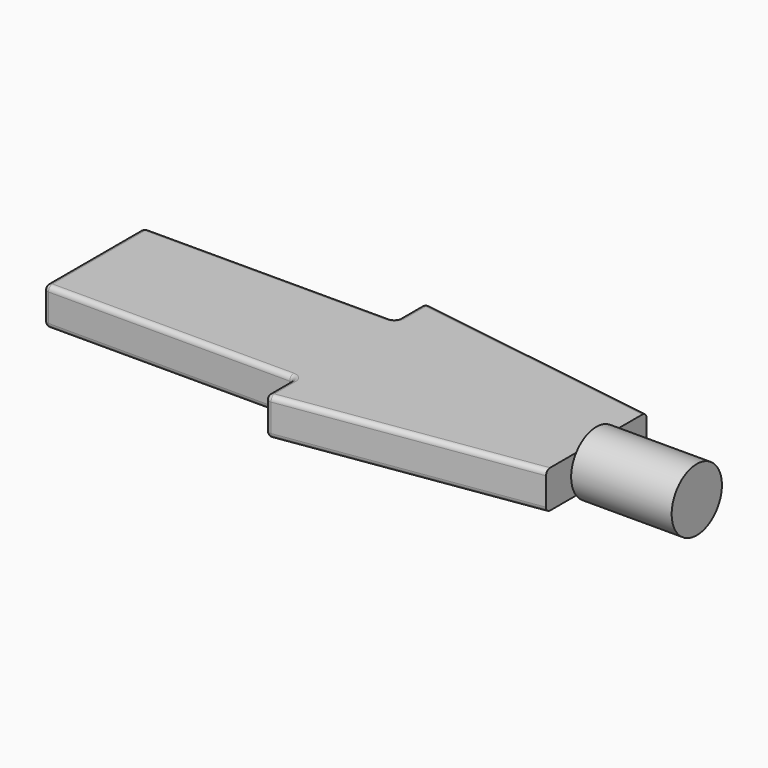
from build123d import *

# Parameters (mm, degrees)
F1_DEPTH = 1.5
F2_R     = 1.25
F3_DEPTH = 4
F4_R     = 0.2


with BuildPart() as f1:
    # F0 (on Top) → F1 (new body)
    with BuildSketch(Plane.XY):
        Polygon((0, 2.5), (0, 0), (0, -2.5), (10, -2.5), (10, -4), (20, -2.5), (20, 0), (20, 2.5), (10, 4), (10, 2.5), align=None)
    extrude(amount=F1_DEPTH)

    # F2 (on face) → F3 (join)
    with BuildSketch(Plane.YZ.offset(20)):
        with Locations((0, 0.75)):
            Circle(F2_R)
    extrude(amount=F3_DEPTH)

    # F4
    f4_edges = [f1.edges().sort_by_distance(p)[0] for p in [
        (5, -2.5, 1.5),
        (0, 0, 1.5),
        (5, 2.5, 1.5),
        (15, 3.25, 1.5),
        (15, -3.25, 1.5),
        (10, -3.25, 1.5),
        (10, 3.25, 1.5),
        (10, -3.25, 0),
        (15, -3.25, 0),
        (5, -2.5, 0),
        (0, 0, 0),
        (10, 3.25, 0),
        (5, 2.5, 0),
        (15, 3.25, 0),
        (10, 4, 0.75),
        (10, 2.5, 0.75),
        (10, -2.5, 0.75),
        (10, -4, 0.75),
        (0, -2.5, 0.75),
        (0, 2.5, 0.75),
    ]]
    fillet(f4_edges, radius=F4_R)


solid = f1.part
